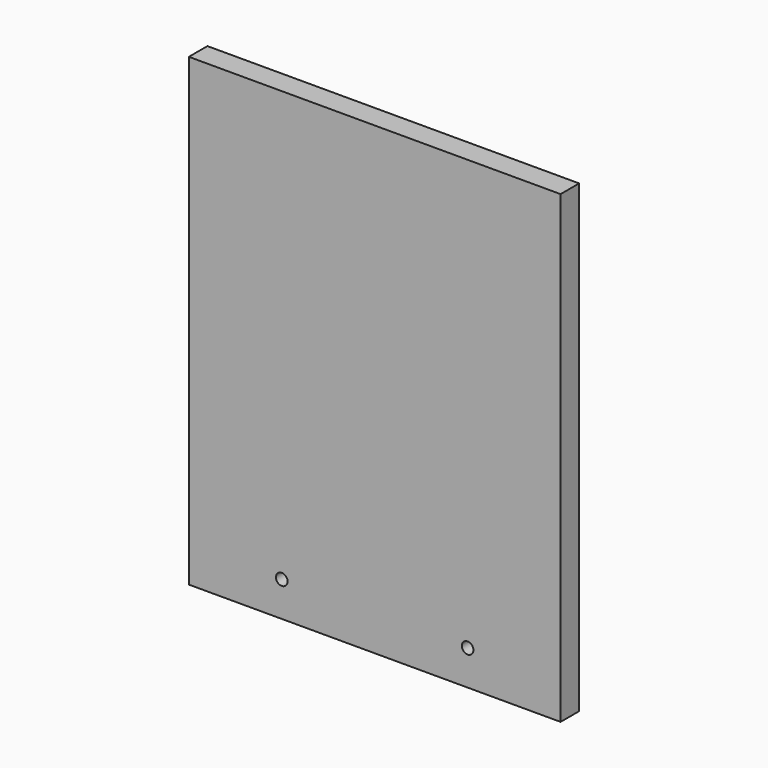
from build123d import *

# Parameters (mm, degrees)
F0_W     = 101.6
F0_H     = 127
F1_DEPTH = 6.35
F3_DEPTH = 6.351


with BuildPart() as f1:
    # F0 (on Front) → F1 (new body)
    with BuildSketch(Plane.XZ):
        Rectangle(F0_W, F0_H)
    extrude(amount=-F1_DEPTH)

    # F2 (on Front) → F3 (cut, through all)
    with BuildSketch(Plane.XZ):
        with BuildLine():
            Line((-26.9875, -53.975), (-23.8125, -53.975))
            ThreePointArc((-23.8125, -53.975), (-25.4, -52.3875), (-26.9875, -53.975))
        make_face()
        with BuildLine():
            ThreePointArc((26.9875, -53.975), (25.4, -52.3875), (23.8125, -53.975))
            Line((23.8125, -53.975), (26.9875, -53.975))
        make_face()
        with BuildLine():
            Line((26.9875, -53.975), (23.8125, -53.975))
            ThreePointArc((23.8125, -53.975), (25.4, -55.5625), (26.9875, -53.975))
        make_face()
        with BuildLine():
            ThreePointArc((-26.9875, -53.975), (-25.4, -55.5625), (-23.8125, -53.975))
            Line((-23.8125, -53.975), (-26.9875, -53.975))
        make_face()
    extrude(amount=-F3_DEPTH, mode=Mode.SUBTRACT)


solid = f1.part
